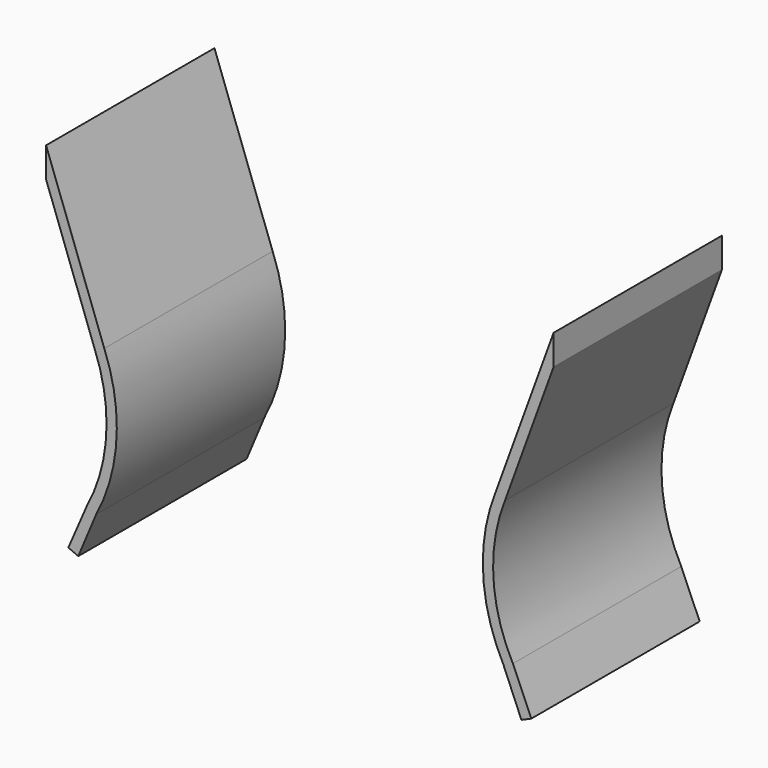
from build123d import *

# Parameters (mm, degrees)
PAD002_DEPTH = 1.75


with BuildPart() as left_side_contact:
    # Sketch003 → Pad002 (new body, symmetric)
    with BuildSketch(Plane.XZ):
        with BuildLine():
            Line((-3.412832, 5.032325), (-4.22, 7.25))
            Line((-4.22, 7.25), (-4.22, 7.75))
            Line((-4.22, 7.75), (-3.252136, 5.090814))
            ThreePointArc((-3.386327, 2.618209), (-3.047888, 3.839786), (-3.252136, 5.090814))
            Line((-3.68486, 1.908385), (-3.386327, 2.618209))
            Line((-3.85, 1.98), (-3.68486, 1.908385))
            Line((-3.543646, 2.686433), (-3.85, 1.98))
            ThreePointArc((-3.543646, 2.686433), (-3.218799, 3.844912), (-3.412832, 5.032325))
        make_face()
    extrude(amount=PAD002_DEPTH, both=True)


with BuildPart() as side_contacts001:
    # Part__Mirroring: instance of left-side-contact
    add(left_side_contact.part.mirror(Plane(origin=(0, 0, 0), x_dir=(0, -1, 0), z_dir=(1, 0, 0))))

    # Fusion008: union left-side-contact
    add(left_side_contact.part)


solid = side_contacts001.part
